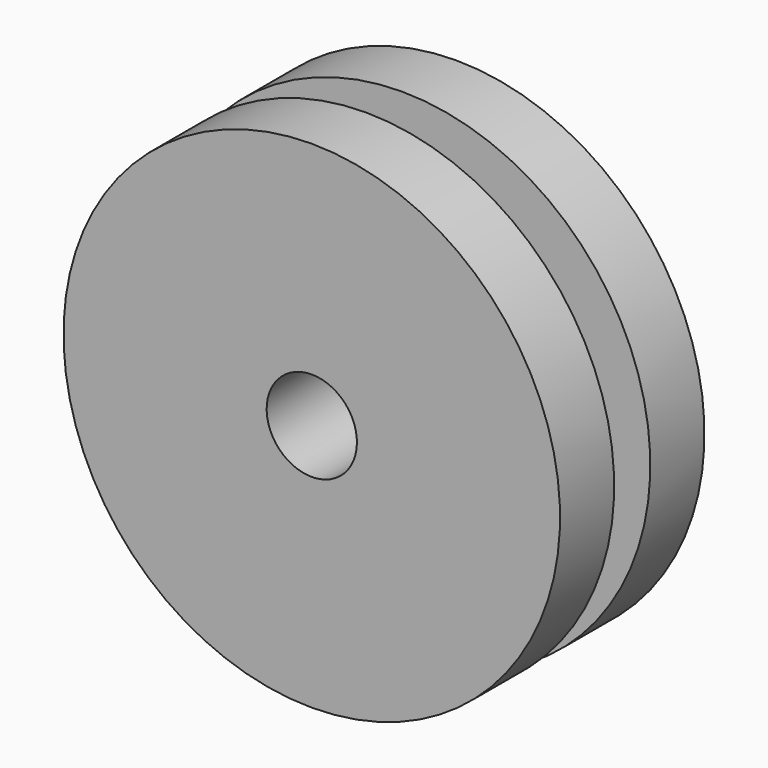
from build123d import *

# Parameters (mm, degrees)
F0_W   = 1
F0_H   = 3
F0_W_2 = 1.5
F0_H_2 = 1.5


with BuildPart() as f1:
    # F0 (on Right) → F1 (revolve)
    with BuildSketch(Plane.YZ):
        with Locations((2, 2.5)):
            Rectangle(F0_W, F0_H)
        with Locations((3.25, 2.5)):
            Rectangle(F0_W_2, F0_H)
        with Locations((3.25, 4.75)):
            Rectangle(F0_W_2, F0_H_2)
        with Locations((0.75, 4.75)):
            Rectangle(F0_W_2, F0_H_2)
        with Locations((0.75, 2.5)):
            Rectangle(F0_W_2, F0_H)
    revolve(axis=Axis((0, 2, 0), (0, 1, 0)))


solid = f1.part
